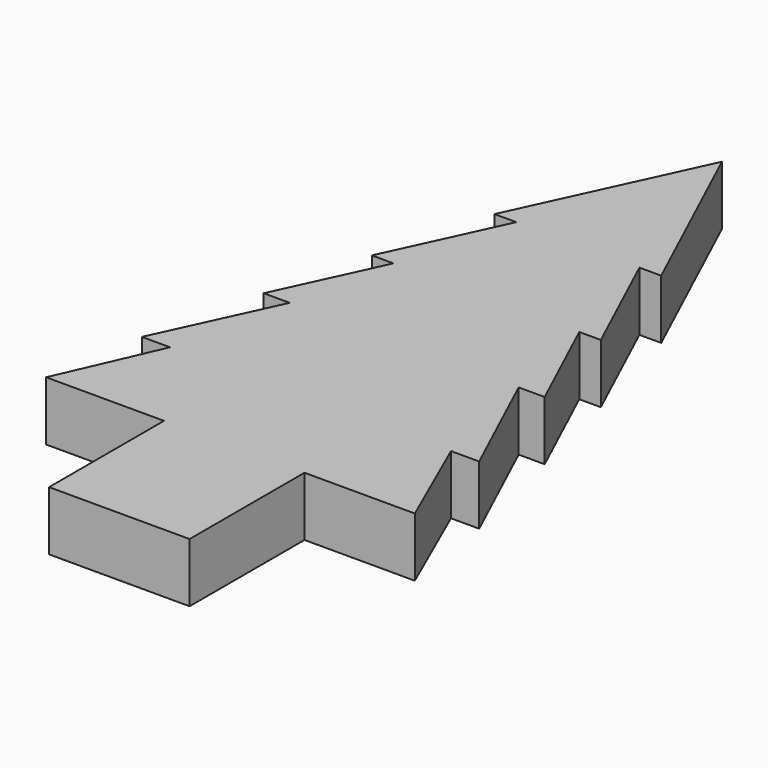
from build123d import *

# Parameters (mm, degrees)
F1_DEPTH = 7.874


with BuildPart() as f1:
    # F0 (on Top) → F1 (new body)
    with BuildSketch(Plane.XY):
        Polygon((11.084188, 28.872217), (0, 52.824256), (-11.084188, 28.872217), (-8.18586, 28.872217), (-15.224759, 13.661723), (-12.358233, 13.661723), (-18.680413, 0), (-15.224759, 0), (-22.430282, -15.570556), (-18.680413, -15.570556), (-24.522118, -28.88114), (-8.843387, -28.88114), (-8.843387, -47.982888), (0, -47.982888), (9.843653, -47.982888), (9.843653, -28.88114), (24.522118, -28.88114), (18.680413, -15.570556), (22.430282, -15.570556), (15.224759, 0), (18.680413, 0), (12.358233, 13.661723), (15.224759, 13.661723), (8.18586, 28.872217), align=None)
    extrude(amount=F1_DEPTH)


solid = f1.part
